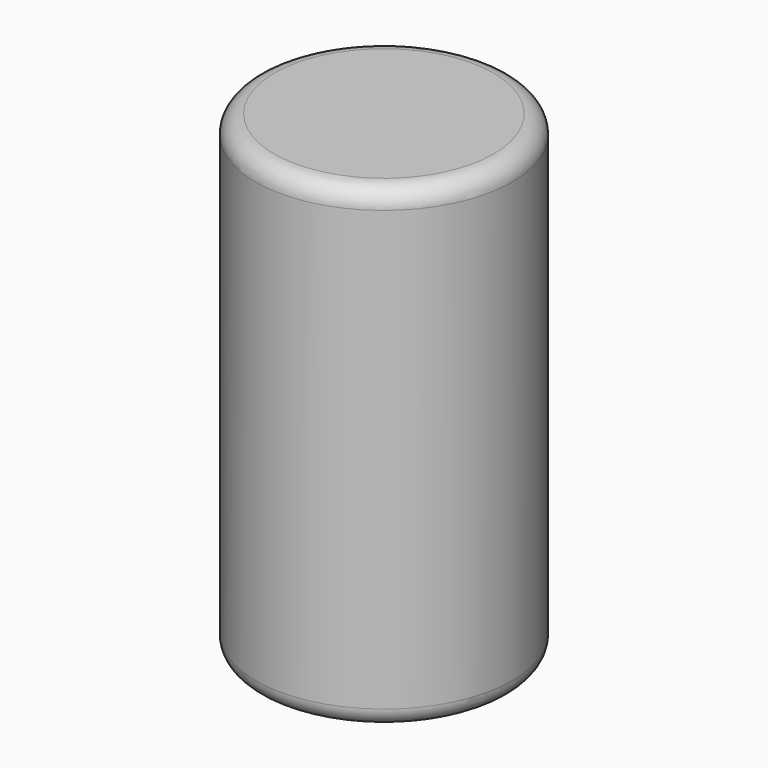
from build123d import *

# Parameters (mm, degrees)
F0_W = 17.5
F0_H = 65
F2_R = 2.54


with BuildPart() as f1:
    # F0 (on Front) → F1 (revolve)
    with BuildSketch(Plane.XZ):
        with Locations((8.75, 32.5)):
            Rectangle(F0_W, F0_H)
    revolve(axis=Axis((0, 0, 32.5), (0, 0, 1)))

    # F2
    f2_edges = [f1.edges().sort_by_distance(p)[0] for p in [
        (-17.5, 0, 65),
        (-17.5, 0, 0),
    ]]
    fillet(f2_edges, radius=F2_R)


solid = f1.part
